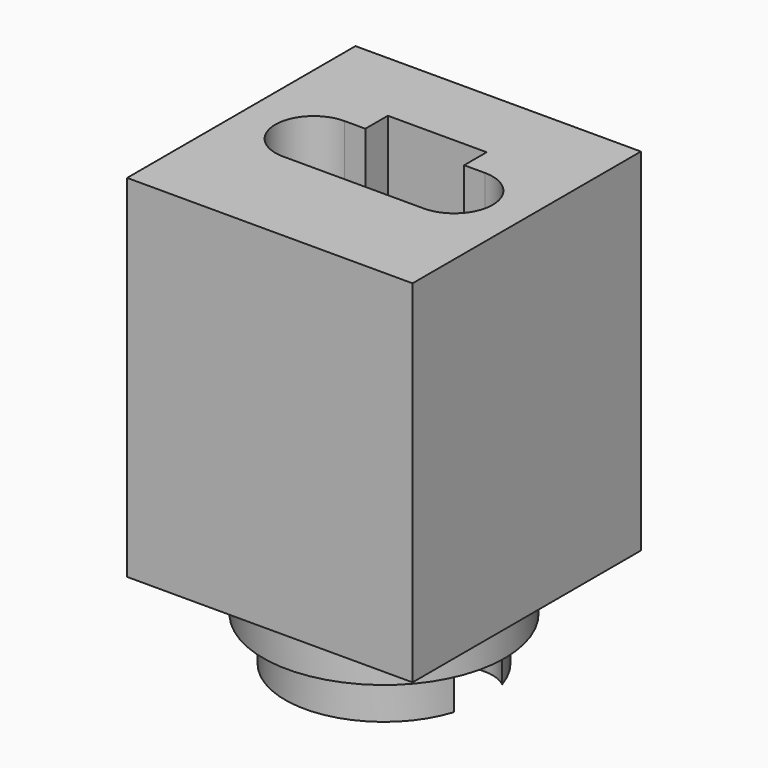
from build123d import *

# Parameters (mm, degrees)
SKETCH_R        = 4.5
PAD_DEPTH       = 2
SKETCH001_R     = 5.5
PAD001_DEPTH    = 2
SKETCH003_W     = 13
SKETCH003_H     = 13
PAD002_DEPTH    = 16
POCKET_DEPTH    = 20
SKETCH005_W     = 4.5
SKETCH005_H     = 2.303615
POCKET001_DEPTH = 7


with BuildPart() as part:
    # Sketch → Pad (new body)
    with BuildSketch(Plane.XY):
        Circle(SKETCH_R)
    extrude(amount=PAD_DEPTH)

    # Sketch001 (on Face3 of Pad) → Pad001 (join)
    with BuildSketch(Plane.XY.offset(2)):
        Circle(SKETCH001_R)
    extrude(amount=PAD001_DEPTH)

    # Sketch003 (on Face3 of Pad001) → Pad002 (join)
    with BuildSketch(Plane.XY.offset(4)):
        Rectangle(SKETCH003_W, SKETCH003_H)
    extrude(amount=PAD002_DEPTH)

    # Sketch004 (on Face10 of Pad002) → Pocket (cut)
    with BuildSketch(Plane(origin=(0, 0, 0), x_dir=(1, 0, 0), z_dir=(0, 0, -1))):
        with BuildLine():
            ThreePointArc((-3.2, 1.75), (-4.95, 0), (-3.2, -1.75))
            Line((-3.2, -1.75), (3.2, -1.75))
            ThreePointArc((3.2, -1.75), (4.95, 0), (3.2, 1.75))
            Line((-3.2, 1.75), (3.2, 1.75))
        make_face()
    extrude(amount=-POCKET_DEPTH, mode=Mode.SUBTRACT)

    # Sketch005 (on Face5 of Pocket) → Pocket001 (cut)
    with BuildSketch(Plane.XY.offset(20)):
        with Locations((0, 1.879977)):
            Rectangle(SKETCH005_W, SKETCH005_H)
    extrude(amount=-POCKET001_DEPTH, mode=Mode.SUBTRACT)


solid = part.part
